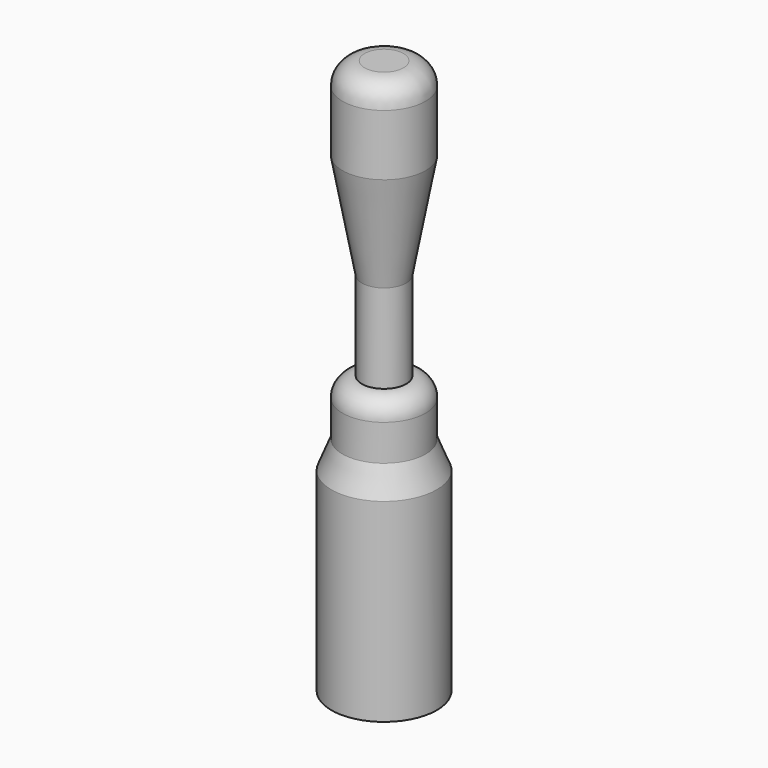
from build123d import *


with BuildPart() as f1:
    # F0 (on Front) → F1 (revolve)
    with BuildSketch(Plane.XZ):
        with BuildLine():
            Line((7.5, -15), (7.5, -4))
            ThreePointArc((7.5, -4), (6.328427, -1.171573), (3.5, 0))
            Line((3.5, 0), (0, 0))
            Line((0, 0), (0, -100))
            Line((0, -100), (9.5, -100))
            Line((9.5, -100), (9.5, -65))
            Line((9.5, -65), (7.5, -60))
            Line((7.5, -60), (7.5, -53.5))
            ThreePointArc((7.5, -53.5), (6.474874, -51.025126), (4, -50))
            Line((4, -50), (4, -34))
            Line((4, -34), (7.5, -15))
        make_face()
    revolve(axis=Axis((0, 0, -50), (0, 0, 1)))


solid = f1.part
